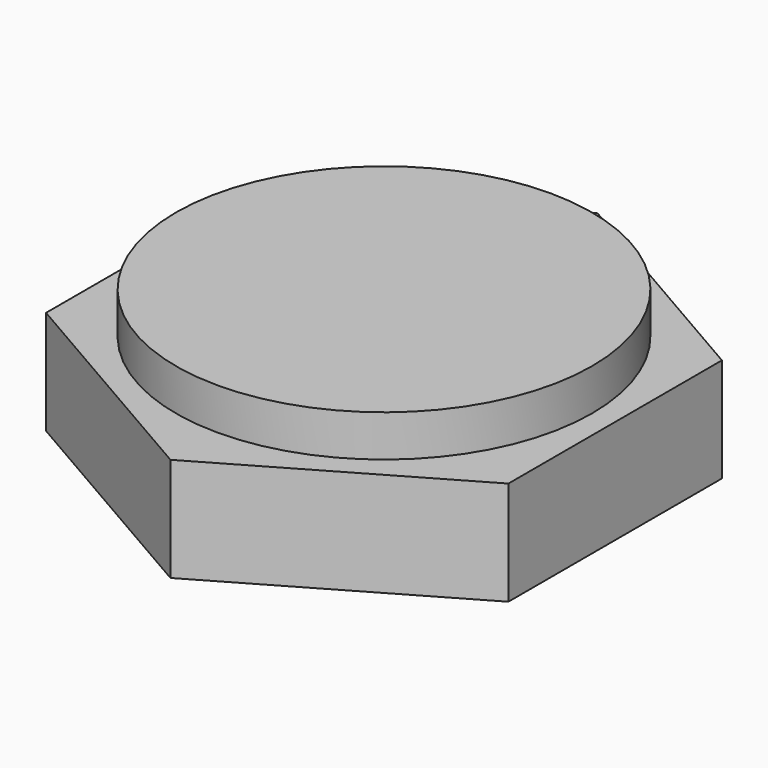
from build123d import *

# Parameters (mm, degrees)
F0_R     = 5
F1_DEPTH = 3.5
F2_DEPTH = 2.5


with BuildPart() as f1:
    # F0 (on Top) → F1 (new body)
    with BuildSketch(Plane.XY):
        Circle(F0_R)
    extrude(amount=F1_DEPTH)

    # F0 (on Top) → F2 (join)
    with BuildSketch(Plane.XY):
        Polygon((5.555, -3.207181), (5.555, 3.207181), (0, 6.414361), (-5.555, 3.207181), (-5.555, -3.207181), (0, -6.414361), align=None)
        Circle(F0_R, mode=Mode.SUBTRACT)
    extrude(amount=F2_DEPTH)


solid = f1.part
